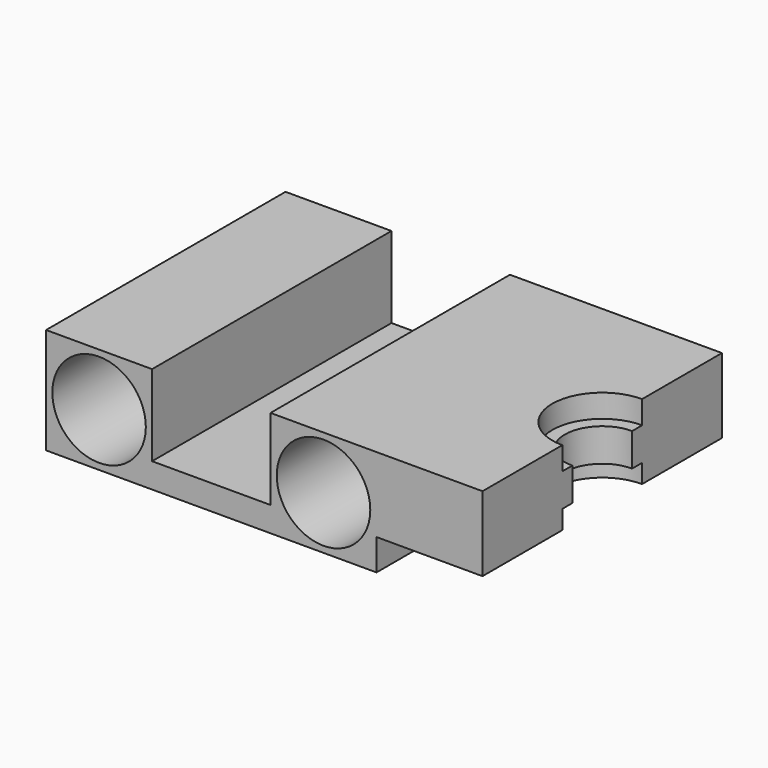
from build123d import *

# Parameters (mm, degrees)
SKETCH_R        = 7.5
PAD_DEPTH       = 24
SKETCH001_W     = 12
SKETCH001_H     = 48
PAD001_DEPTH    = 17
POCKET_DEPTH    = 17.001
POCKET001_DEPTH = 3.7
POCKET002_DEPTH = 3


with BuildPart() as part:
    # Sketch → Pad (new body, symmetric)
    with BuildSketch(Plane.XZ):
        Polygon((-26.5, 8.5), (-26.5, -8.5), (26.5, -8.5), (26.5, 8.5), (9.5, 8.5), (9.5, -4.5), (-9.5, -4.5), (-9.5, 8.5), align=None)
        with Locations((-18, 0)):
            Circle(SKETCH_R, mode=Mode.SUBTRACT)
        with Locations((18, 0)):
            Circle(SKETCH_R, mode=Mode.SUBTRACT)
    extrude(amount=PAD_DEPTH, both=True)

    # Sketch001 → Pad001 (new body)
    with BuildSketch(Plane(origin=(26.5, 0, 0), x_dir=(0, 0, 1), z_dir=(1, 0, 0))):
        with Locations((2.5, 0)):
            Rectangle(SKETCH001_W, SKETCH001_H)
    extrude(amount=PAD001_DEPTH)

    # Sketch002 → Pocket (cut, through all)
    with BuildSketch(Plane(origin=(0, 0, 8.5), x_dir=(-1, 0, 0), z_dir=(0, 0, 1))):
        with BuildLine():
            ThreePointArc((-43.5, -6), (-37.5, 0), (-43.5, 6))
            Line((-43.5, 6), (-55.5, 6))
            Line((-55.5, 6), (-55.5, -6))
            Line((-55.5, -6), (-43.5, -6))
        make_face()
    extrude(amount=-POCKET_DEPTH, mode=Mode.SUBTRACT)

    # Sketch003 → Pocket001 (cut)
    with BuildSketch(Plane(origin=(0, 0, 8.5), x_dir=(-1, 0, 0), z_dir=(0, 0, 1))):
        with BuildLine():
            ThreePointArc((-43.50003, -8), (-35.5, -1.5e-05), (-43.5, 8))
            Line((-43.5, 8), (-59.5, 8))
            Line((-59.5, 8), (-59.5, -8))
            Line((-59.5, -8), (-43.50003, -8))
        make_face()
    extrude(amount=-POCKET001_DEPTH, mode=Mode.SUBTRACT)

    # Sketch004 → Pocket002 (cut)
    with BuildSketch(Plane(origin=(0, 0, -3.5), x_dir=(1, 0, 0), z_dir=(0, 0, -1))):
        with BuildLine():
            ThreePointArc((43.5, 8), (35.500027, -1.3e-05), (43.500027, -8))
            Line((59.500053, -8), (43.500027, -8))
            Line((59.500053, 8.000053), (59.500053, -8))
            Line((43.5, 8), (59.500053, 8.000053))
        make_face()
    extrude(amount=-POCKET002_DEPTH, mode=Mode.SUBTRACT)


solid = part.part
